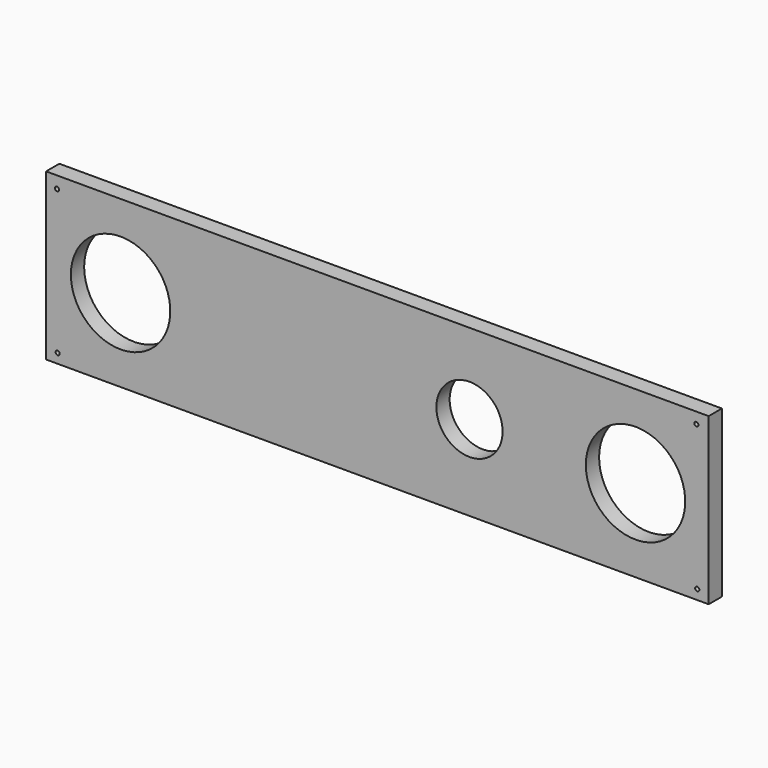
from build123d import *

# Parameters (mm, degrees)
F0_W     = 508
F0_H     = 127
F1_DEPTH = 12.7
F3_D     = 3.175
F5_D     = 3.175
F7_D     = 76.2
F9_D     = 50.8
F11_D    = 76.2


with BuildPart() as f1:
    # F0 (on Front) → F1 (new body)
    with BuildSketch(Plane.XZ):
        with Locations((-143.865749, 51.691295)):
            Rectangle(F0_W, F0_H)
    extrude(amount=F1_DEPTH)

    # F3 (through all)
    with Locations(Plane.XZ.offset(12.7)):
        with Locations((100.726366, 106.68204)):
            Hole(F3_D / 2)

    # F5 (through all)
    with Locations(Plane.XZ.offset(12.7)):
        with Locations((101.377115, -4.356061), (-389.453292, 106.042355), (-389.003724, -4.472178)):
            Hole(F5_D / 2)

    # F7 (through all)
    with Locations(Plane.XZ.offset(12.7)):
        with Locations((-340.738475, 51.691294)):
            Hole(F7_D / 2)

    # F9 (through all)
    with Locations(Plane.XZ.offset(12.7)):
        with Locations((-73.235735, 53.365439)):
            Hole(F9_D / 2)

    # F11 (through all)
    with Locations(Plane.XZ.offset(12.7)):
        with Locations((54.064672, 51.691295)):
            Hole(F11_D / 2)


solid = f1.part
